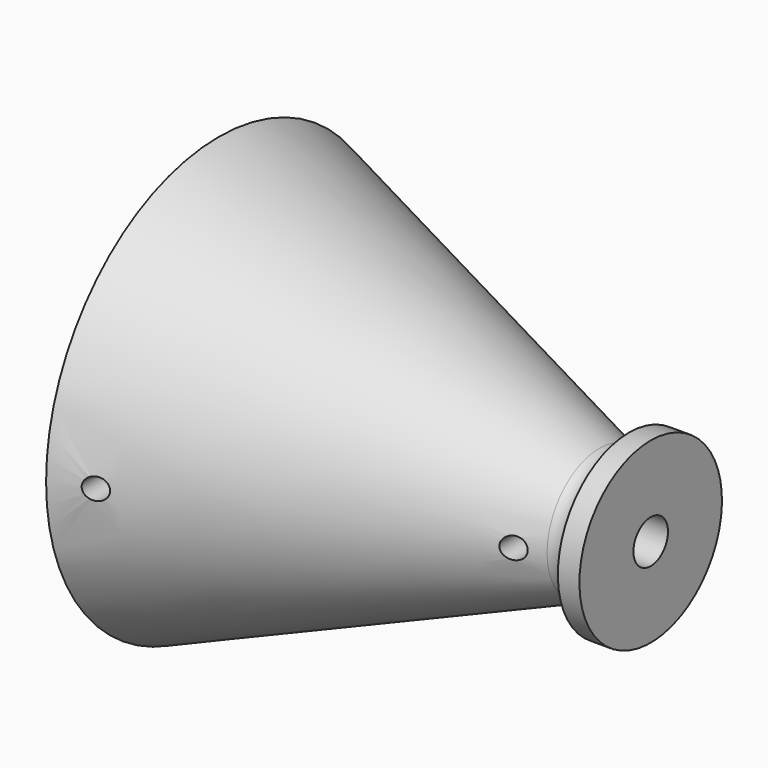
from build123d import *

# Parameters (mm, degrees)
F2_R          = 1
F3_R          = 0.5
F4_DEPTH      = 10.001
F4_DEPTH_BACK = 10.001


with BuildPart() as f1:
    # F0 (on Front) → F1 (revolve)
    with BuildSketch(Plane.XZ):
        Polygon((0, 10), (0, 1), (20, 1), (20, 4.1248017436), (19, 4.1248017436), (19, 2.5), align=None)
    revolve(axis=Axis((8.1747960717, 0, 0), (1, 0, 0)))

    # F2
    f2_edges = [f1.edges().sort_by_distance(p)[0] for p in [
        (19, 0, -2.5),
    ]]
    fillet(f2_edges, radius=F2_R)

    # F3 (on Front) → F4 (cut, two sides)
    with BuildSketch(Plane.XZ) as f4_sk:
        with Locations((1.7530444311, 0)):
            Circle(F3_R)
        with Locations((16.452120617, 0)):
            Circle(F3_R)
    extrude(amount=-F4_DEPTH, mode=Mode.SUBTRACT)
    extrude(f4_sk.sketch, amount=F4_DEPTH_BACK, mode=Mode.SUBTRACT)


solid = f1.part
